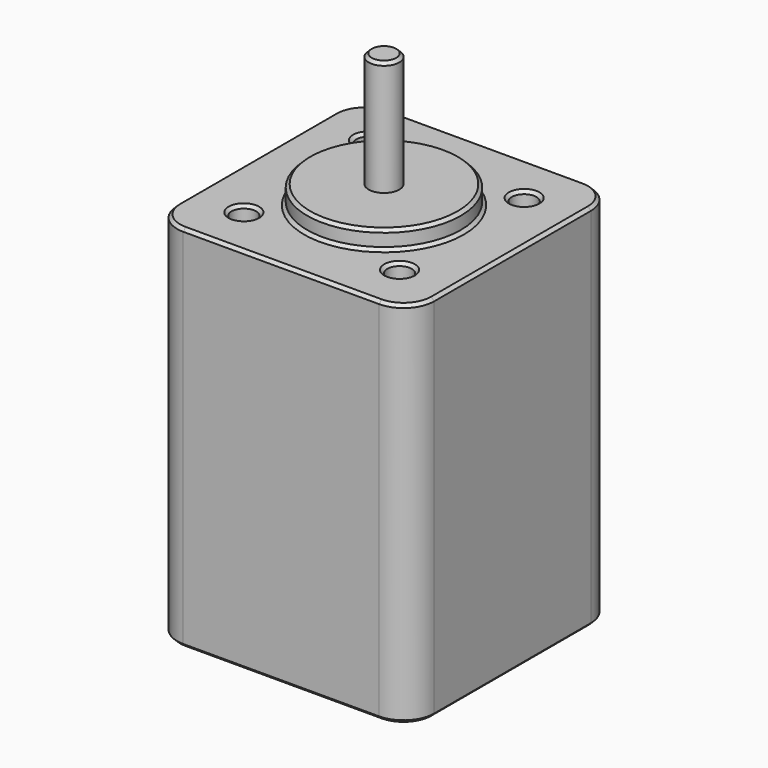
from build123d import *

# Parameters (mm, degrees)
F0_R     = 2
F0_R_2   = 12.5476
F0_R_3   = 2.50063
F1_DEPTH = 60.3
F2_DEPTH = 3.048
F3_DEPTH = 21.844
F4_SIZE  = 0.5


with BuildPart() as f1:
    # F0 (on Top) → F1 (new body)
    with BuildSketch(Plane.XY):
        with BuildLine():
            ThreePointArc((21.0058, 16.0058), (19.541334, 19.541334), (16.0058, 21.0058))
            Line((16.0058, 21.0058), (-16.0058, 21.0058))
            ThreePointArc((-16.0058, 21.0058), (-19.541334, 19.541334), (-21.0058, 16.0058))
            Line((-21.0058, 16.0058), (-21.0058, -16.0058))
            ThreePointArc((-21.0058, -16.0058), (-19.541334, -19.541334), (-16.0058, -21.0058))
            Line((-16.0058, -21.0058), (16.0058, -21.0058))
            ThreePointArc((16.0058, -21.0058), (19.541334, -19.541334), (21.0058, -16.0058))
            Line((21.0058, -16.0058), (21.0058, 16.0058))
        make_face()
        with Locations((-12.725023, -12.725023)):
            Circle(F0_R, mode=Mode.SUBTRACT)
        with Locations((12.725023, -12.725023)):
            Circle(F0_R, mode=Mode.SUBTRACT)
        with Locations((-12.725023, 12.725023)):
            Circle(F0_R, mode=Mode.SUBTRACT)
        Circle(F0_R_2, mode=Mode.SUBTRACT)
        with Locations((12.725023, 12.725023)):
            Circle(F0_R, mode=Mode.SUBTRACT)
        Circle(F0_R_2)
        Circle(F0_R_3, mode=Mode.SUBTRACT)
    extrude(amount=-F1_DEPTH)

    # F0 (on Top) → F2 (join)
    with BuildSketch(Plane.XY):
        Circle(F0_R_2)
        Circle(F0_R_3, mode=Mode.SUBTRACT)
    extrude(amount=F2_DEPTH)

    # F0 (on Top) → F3 (join)
    with BuildSketch(Plane.XY):
        Circle(F0_R_3)
    extrude(amount=F3_DEPTH)

    # F4
    f4_edges = [f1.edges().sort_by_distance(p)[0] for p in [
        (-2.50063, 0, 21.844),
        (-12.5476, 0, 3.048),
        (-14.725023, -12.725023, 0),
        (-14.725023, 12.725023, 0),
        (10.725023, 12.725023, 0),
        (10.725023, -12.725023, 0),
        (19.541334, 19.541334, 0),
        (21.0058, 0, 0),
        (0, 21.0058, 0),
        (19.541334, -19.541334, 0),
        (-19.541334, 19.541334, 0),
        (0, -21.0058, 0),
        (-21.0058, 0, 0),
        (-19.541334, -19.541334, 0),
        (-12.5476, 0, 0),
        (19.541334, 19.541334, -60.3),
        (0, 21.0058, -60.3),
        (-19.541334, 19.541334, -60.3),
        (-21.0058, 0, -60.3),
        (-19.541334, -19.541334, -60.3),
        (0, -21.0058, -60.3),
        (19.541334, -19.541334, -60.3),
        (21.0058, 0, -60.3),
        (-14.725023, -12.725023, -60.3),
        (10.725023, -12.725023, -60.3),
        (-14.725023, 12.725023, -60.3),
        (10.725023, 12.725023, -60.3),
        (-2.50063, 0, -60.3),
    ]]
    chamfer(f4_edges, length=F4_SIZE)


solid = f1.part
